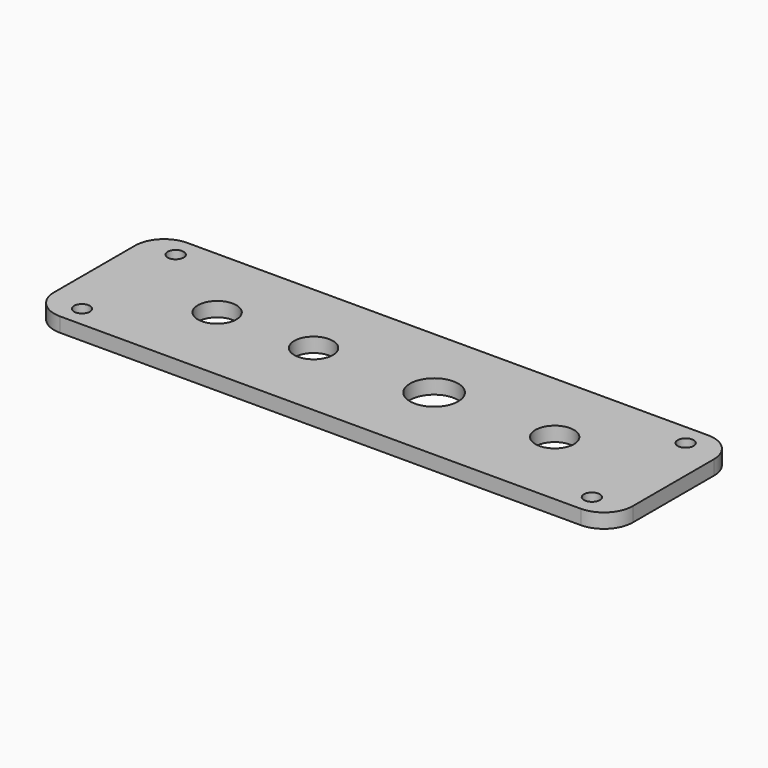
from build123d import *

# Parameters (mm, degrees)
SKETCH_W        = 120
SKETCH_H        = 33
PAD_DEPTH       = 3
SKETCH195_R     = 4
SKETCH195_R_2   = 5
POCKET_DEPTH    = 5
SKETCH196_R     = 1.65
POCKET137_DEPTH = 5
FILLET_R        = 6


with BuildPart() as part:
    # Sketch → Pad (new body)
    with BuildSketch(Plane.XY):
        with Locations((60, -56.515431)):
            Rectangle(SKETCH_W, SKETCH_H)
    extrude(amount=PAD_DEPTH)

    # Sketch195 (on Face6 of Pad) → Pocket (cut)
    with BuildSketch(Plane.XY.offset(3)):
        with Locations((25.000934, -56.019999)):
            Circle(SKETCH195_R)
        with Locations((45.000934, -56.019999)):
            Circle(SKETCH195_R)
        with Locations((70.000934, -56.019999)):
            Circle(SKETCH195_R_2)
        with Locations((95.000934, -56.019999)):
            Circle(SKETCH195_R)
    extrude(amount=-POCKET_DEPTH, mode=Mode.SUBTRACT)

    # Sketch196 (on Face5 of Pocket) → Pocket137 (cut)
    with BuildSketch(Plane.XY.offset(3)):
        with Locations((7.125, -44.415438)):
            Circle(SKETCH196_R)
        with Locations((112.875, -68.713068)):
            Circle(SKETCH196_R)
        with Locations((112.875, -44.415438)):
            Circle(SKETCH196_R)
        with Locations((7.125, -68.713068)):
            Circle(SKETCH196_R)
    extrude(amount=-POCKET137_DEPTH, mode=Mode.SUBTRACT)

    # Fillet
    fillet_edges = [part.edges().sort_by_distance(p)[0] for p in [
        (0, -73.015431, 1.5),
        (0, -40.015431, 1.5),
        (120, -73.015431, 1.5),
        (120, -40.015431, 1.5),
    ]]
    fillet(fillet_edges, radius=FILLET_R)


solid = part.part
